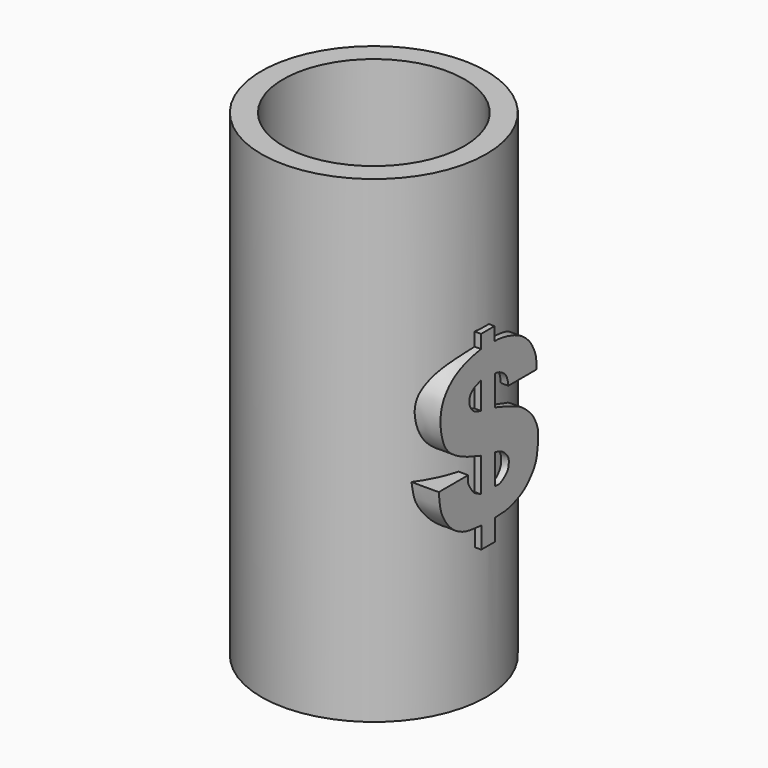
from build123d import *

# Parameters (mm, degrees)
F0_R     = 20
F1_DEPTH = 85
F2_T     = -3.9
F4_DEPTH = 21
F5_DEPTH = 16


with BuildPart() as f1:
    # F0 (on Top) → F1 (new body)
    with BuildSketch(Plane.XY):
        Circle(F0_R)
    extrude(amount=F1_DEPTH)

    # F2
    f2_openings = [f1.faces().sort_by_distance(p)[0] for p in [
        (0, 0, 85),
    ]]
    offset(amount=F2_T, openings=f2_openings)

    # F3 (on Right) → F4 (join)
    with BuildSketch(Plane.YZ):
        with BuildLine():
            Line((-5.2795163356, 37.2123047709), (-11.8148485199, 37.2123047709))
            add(Edge.make_bspline(
                [(-2.366830362, 28.1427111477), (-3.2384763006, 28.2098252629), (-4.9745129147, 28.3434948599), (-7.4821325834, 29.0815999786), (-9.5911107269, 30.8004021217), (-10.967466792, 32.8874855848), (-11.5890285057, 34.6952655776), (-11.7385772531, 36.7287830086), (-11.7962371196, 37.0943177826), (-11.8148485199, 37.2123047709)],
                knots=[0, 0, 0, 0, 0.1631978761, 0.3250373526, 0.4904684387, 0.6481768586, 0.7912003207, 0.9326038257, 1, 1, 1, 1], degree=3))
            Line((-2.366830362, 28.1427111477), (-2.366830362, 24.360274896))
            Line((-2.366830362, 24.360274896), (0.6674604374, 24.360274896))
            Line((0.6674604374, 24.360274896), (0.6674604374, 28.1427111477))
            add(Edge.make_bspline(
                [(0.6674604374, 45.3942939639), (1.2251335747, 45.2183710185), (2.4290867505, 44.8385732934), (4.7260635743, 43.8970325288), (6.5411995337, 43.1846877643), (8.0371379696, 41.8388400641), (9.0907386934, 40.8049224918), (9.9677851542, 39.0518637754), (10.3976410938, 37.7080603699), (10.1421587529, 34.6544025277), (9.7259515285, 32.6871804193), (8.1109117762, 30.6201428945), (6.7250747135, 29.5323007698), (4.8892718544, 28.6938982145), (2.9112440645, 28.1854176618), (1.6762430193, 28.2168036737), (0.9914583393, 28.1665079731), (0.6674604374, 28.1427111477)],
                knots=[0, 0, 0, 0, 0.0660367271, 0.1425658185, 0.2112154747, 0.2788650988, 0.3387167421, 0.4049405398, 0.46362826, 0.5471706586, 0.6178857025, 0.6946485278, 0.7594861876, 0.8284339241, 0.8979480707, 0.9517153173, 1, 1, 1, 1], degree=3))
            Line((0.6674604374, 45.3942939639), (0.6674604374, 50.6643354893))
            add(Edge.make_bspline(
                [(3.6427392624, 47.5782752037), (3.6063091745, 47.8895919299), (3.5299925726, 48.5417625938), (3.081736713, 49.6510373868), (2.0790455688, 50.3608408772), (1.1549901673, 50.7109411773), (0.8088842485, 50.6778549807), (0.6674604374, 50.6643354893)],
                knots=[0, 0, 0, 0, 0.2034872069, 0.4262809406, 0.6561474922, 0.8594969648, 1, 1, 1, 1], degree=3))
            Line((3.6427392624, 47.5782752037), (9.9256420508, 47.5782752037))
            add(Edge.make_bspline(
                [(0.584377558, 55.7887628675), (0.8144003925, 55.7986096533), (1.3817059667, 55.8228947923), (2.9957381918, 55.5717085577), (4.650250674, 55.0883585747), (5.8112485723, 54.6339514076), (7.0997898064, 53.8837172203), (8.4773948824, 52.6009439665), (9.2923684771, 51.1185220337), (9.7719351669, 49.9672651503), (9.9143528815, 48.7021245788), (9.9219444422, 47.9463762615), (9.9256420508, 47.5782752037)],
                knots=[0, 0, 0, 0, 0.0741961035, 0.1829899332, 0.2957855063, 0.3900555164, 0.4929310135, 0.609909068, 0.7202435372, 0.8148558768, 0.9098221643, 1, 1, 1, 1], degree=3))
            Line((0.584377558, 55.7887628675), (0.584377558, 58.1611767411))
            Line((0.584377558, 58.1611767411), (-2.4147133809, 58.1611767411))
            Line((-2.4147133809, 58.1611767411), (-2.4147133809, 55.7887628675))
            add(Edge.make_bspline(
                [(-2.4147133809, 39.0923321247), (-3.5483771468, 39.457399909), (-5.8024015044, 40.1832515263), (-9.000678292, 41.8463766687), (-10.7110014422, 43.7880901609), (-11.5494933672, 47.0018580206), (-11.3928211011, 50.8758707929), (-8.4800725833, 54.1693156933), (-4.5954506945, 55.4497350889), (-3.0619968774, 55.6881331013), (-2.4147133809, 55.7887628675)],
                knots=[0, 0, 0, 0, 0.1302426303, 0.2589569058, 0.3668197136, 0.4895074753, 0.6220177475, 0.7623289077, 0.8996770728, 1, 1, 1, 1], degree=3))
            Line((-2.4147133809, 39.0923321247), (-2.4147133809, 33.0493859947))
            add(Edge.make_bspline(
                [(-5.2795163356, 37.2123047709), (-5.3261864325, 36.7766575429), (-5.4177789985, 35.9216765142), (-4.7428025942, 34.9437959594), (-4.056122951, 33.8676055385), (-3.2152164974, 33.5163920109), (-2.6834565767, 33.2061682566), (-2.4147133809, 33.0493859947)],
                knots=[0, 0, 0, 0, 0.2147828296, 0.4215228119, 0.6355480544, 0.8158116533, 1, 1, 1, 1], degree=3))
        make_face()
        with BuildLine():
            Line((0.6674604374, 33.0882743001), (0.6674604374, 38.3741445839))
            add(Edge.make_bspline(
                [(0.6674604374, 38.3741445839), (0.9316299007, 38.3264682391), (1.5167357459, 38.2208704621), (2.6655443818, 37.6676432969), (3.3691218545, 36.8346177766), (3.8077735965, 36.0952764781), (3.7382841092, 35.1250065666), (3.5923855321, 34.4029457316), (2.8397217413, 33.6552855857), (2.1062472079, 33.179128443), (1.4238625057, 32.9469085346), (0.9236564349, 33.0403932262), (0.6674604374, 33.0882743001)],
                knots=[0, 0, 0, 0, 0.0974744301, 0.2158949717, 0.3259933274, 0.4223472617, 0.5239515969, 0.614124093, 0.7209223359, 0.8205670646, 0.9080978769, 1, 1, 1, 1], degree=3))
        make_face(mode=Mode.SUBTRACT)
        with BuildLine():
            Line((-2.4147133809, 50.8891679347), (-2.4147133809, 46.1097322404))
            add(Edge.make_bspline(
                [(-2.4147133809, 50.8891679347), (-2.8496231076, 50.7640883982), (-3.7086153913, 50.5170432067), (-4.8334714197, 49.7505166003), (-5.1959221746, 48.3710982429), (-4.5177299974, 46.96599901), (-3.4935206267, 46.3808232282), (-2.7722113915, 46.199567092), (-2.4147133809, 46.1097322404)],
                knots=[0, 0, 0, 0, 0.1718716475, 0.3394645139, 0.5083385617, 0.6869009075, 0.8448206439, 1, 1, 1, 1], degree=3))
        make_face(mode=Mode.SUBTRACT)
    extrude(amount=F4_DEPTH)

    # F3 (on Right) → F5 (cut)
    with BuildSketch(Plane.YZ):
        with BuildLine():
            Line((-5.2795163356, 37.2123047709), (-11.8148485199, 37.2123047709))
            add(Edge.make_bspline(
                [(-2.366830362, 28.1427111477), (-3.2384763006, 28.2098252629), (-4.9745129147, 28.3434948599), (-7.4821325834, 29.0815999786), (-9.5911107269, 30.8004021217), (-10.967466792, 32.8874855848), (-11.5890285057, 34.6952655776), (-11.7385772531, 36.7287830086), (-11.7962371196, 37.0943177826), (-11.8148485199, 37.2123047709)],
                knots=[0, 0, 0, 0, 0.1631978761, 0.3250373526, 0.4904684387, 0.6481768586, 0.7912003207, 0.9326038257, 1, 1, 1, 1], degree=3))
            Line((-2.366830362, 28.1427111477), (-2.366830362, 24.360274896))
            Line((-2.366830362, 24.360274896), (0.6674604374, 24.360274896))
            Line((0.6674604374, 24.360274896), (0.6674604374, 28.1427111477))
            add(Edge.make_bspline(
                [(0.6674604374, 45.3942939639), (1.2251335747, 45.2183710185), (2.4290867505, 44.8385732934), (4.7260635743, 43.8970325288), (6.5411995337, 43.1846877643), (8.0371379696, 41.8388400641), (9.0907386934, 40.8049224918), (9.9677851542, 39.0518637754), (10.3976410938, 37.7080603699), (10.1421587529, 34.6544025277), (9.7259515285, 32.6871804193), (8.1109117762, 30.6201428945), (6.7250747135, 29.5323007698), (4.8892718544, 28.6938982145), (2.9112440645, 28.1854176618), (1.6762430193, 28.2168036737), (0.9914583393, 28.1665079731), (0.6674604374, 28.1427111477)],
                knots=[0, 0, 0, 0, 0.0660367271, 0.1425658185, 0.2112154747, 0.2788650988, 0.3387167421, 0.4049405398, 0.46362826, 0.5471706586, 0.6178857025, 0.6946485278, 0.7594861876, 0.8284339241, 0.8979480707, 0.9517153173, 1, 1, 1, 1], degree=3))
            Line((0.6674604374, 45.3942939639), (0.6674604374, 50.6643354893))
            add(Edge.make_bspline(
                [(3.6427392624, 47.5782752037), (3.6063091745, 47.8895919299), (3.5299925726, 48.5417625938), (3.081736713, 49.6510373868), (2.0790455688, 50.3608408772), (1.1549901673, 50.7109411773), (0.8088842485, 50.6778549807), (0.6674604374, 50.6643354893)],
                knots=[0, 0, 0, 0, 0.2034872069, 0.4262809406, 0.6561474922, 0.8594969648, 1, 1, 1, 1], degree=3))
            Line((3.6427392624, 47.5782752037), (9.9256420508, 47.5782752037))
            add(Edge.make_bspline(
                [(0.584377558, 55.7887628675), (0.8144003925, 55.7986096533), (1.3817059667, 55.8228947923), (2.9957381918, 55.5717085577), (4.650250674, 55.0883585747), (5.8112485723, 54.6339514076), (7.0997898064, 53.8837172203), (8.4773948824, 52.6009439665), (9.2923684771, 51.1185220337), (9.7719351669, 49.9672651503), (9.9143528815, 48.7021245788), (9.9219444422, 47.9463762615), (9.9256420508, 47.5782752037)],
                knots=[0, 0, 0, 0, 0.0741961035, 0.1829899332, 0.2957855063, 0.3900555164, 0.4929310135, 0.609909068, 0.7202435372, 0.8148558768, 0.9098221643, 1, 1, 1, 1], degree=3))
            Line((0.584377558, 55.7887628675), (0.584377558, 58.1611767411))
            Line((0.584377558, 58.1611767411), (-2.4147133809, 58.1611767411))
            Line((-2.4147133809, 58.1611767411), (-2.4147133809, 55.7887628675))
            add(Edge.make_bspline(
                [(-2.4147133809, 39.0923321247), (-3.5483771468, 39.457399909), (-5.8024015044, 40.1832515263), (-9.000678292, 41.8463766687), (-10.7110014422, 43.7880901609), (-11.5494933672, 47.0018580206), (-11.3928211011, 50.8758707929), (-8.4800725833, 54.1693156933), (-4.5954506945, 55.4497350889), (-3.0619968774, 55.6881331013), (-2.4147133809, 55.7887628675)],
                knots=[0, 0, 0, 0, 0.1302426303, 0.2589569058, 0.3668197136, 0.4895074753, 0.6220177475, 0.7623289077, 0.8996770728, 1, 1, 1, 1], degree=3))
            Line((-2.4147133809, 39.0923321247), (-2.4147133809, 33.0493859947))
            add(Edge.make_bspline(
                [(-5.2795163356, 37.2123047709), (-5.3261864325, 36.7766575429), (-5.4177789985, 35.9216765142), (-4.7428025942, 34.9437959594), (-4.056122951, 33.8676055385), (-3.2152164974, 33.5163920109), (-2.6834565767, 33.2061682566), (-2.4147133809, 33.0493859947)],
                knots=[0, 0, 0, 0, 0.2147828296, 0.4215228119, 0.6355480544, 0.8158116533, 1, 1, 1, 1], degree=3))
        make_face()
        with BuildLine():
            Line((0.6674604374, 33.0882743001), (0.6674604374, 38.3741445839))
            add(Edge.make_bspline(
                [(0.6674604374, 38.3741445839), (0.9316299007, 38.3264682391), (1.5167357459, 38.2208704621), (2.6655443818, 37.6676432969), (3.3691218545, 36.8346177766), (3.8077735965, 36.0952764781), (3.7382841092, 35.1250065666), (3.5923855321, 34.4029457316), (2.8397217413, 33.6552855857), (2.1062472079, 33.179128443), (1.4238625057, 32.9469085346), (0.9236564349, 33.0403932262), (0.6674604374, 33.0882743001)],
                knots=[0, 0, 0, 0, 0.0974744301, 0.2158949717, 0.3259933274, 0.4223472617, 0.5239515969, 0.614124093, 0.7209223359, 0.8205670646, 0.9080978769, 1, 1, 1, 1], degree=3))
        make_face(mode=Mode.SUBTRACT)
        with BuildLine():
            Line((-2.4147133809, 50.8891679347), (-2.4147133809, 46.1097322404))
            add(Edge.make_bspline(
                [(-2.4147133809, 50.8891679347), (-2.8496231076, 50.7640883982), (-3.7086153913, 50.5170432067), (-4.8334714197, 49.7505166003), (-5.1959221746, 48.3710982429), (-4.5177299974, 46.96599901), (-3.4935206267, 46.3808232282), (-2.7722113915, 46.199567092), (-2.4147133809, 46.1097322404)],
                knots=[0, 0, 0, 0, 0.1718716475, 0.3394645139, 0.5083385617, 0.6869009075, 0.8448206439, 1, 1, 1, 1], degree=3))
        make_face(mode=Mode.SUBTRACT)
    extrude(amount=F5_DEPTH, mode=Mode.SUBTRACT)


solid = f1.part
